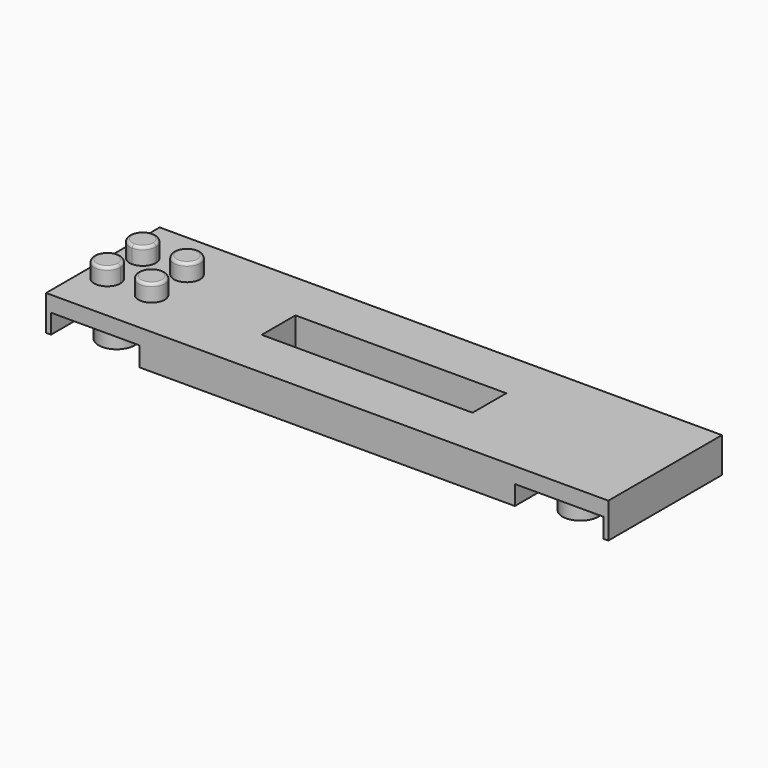
from build123d import *

# Parameters (mm, degrees)
F0_W      = 101.6
F0_H      = 32.004
F1_DEPTH  = 6.35
F2_R      = 2.372595
F3_DEPTH  = 3.048
F4_R      = 0.508
F5_W      = 16.002
F5_H      = 29.0068
F5_R      = 3.2512
F5_R_2    = 2.4003
F6_DEPTH  = 3.5052
F7_W      = 101.6
F7_H      = 3.175
F8_DEPTH  = 6.35
F9_W      = 38.1
F9_H      = 7.62
F10_DEPTH = 6.35


with BuildPart() as f1:
    # F0 (on Top) → F1 (new body)
    with BuildSketch(Plane.XY):
        with Locations((50.8, 16.002)):
            Rectangle(F0_W, F0_H)
    extrude(amount=F1_DEPTH)

    # F2 (on face) → F3 (join)
    with BuildSketch(Plane.XY.offset(6.35)):
        with Locations((12.0015, 20.0025)):
            Circle(F2_R)
        with Locations((12.0015, 12.0015)):
            Circle(F2_R)
        with BuildLine():
            ThreePointArc((6.373095, 12.0015), (5.678178, 13.679178), (4.0005, 14.374095))
            ThreePointArc((4.0005, 14.374095), (2.322822, 10.323822), (6.373095, 12.0015))
        make_face()
        with BuildLine():
            ThreePointArc((4.0005, 17.629905), (5.678178, 18.324822), (6.373095, 20.0025))
            ThreePointArc((6.373095, 20.0025), (2.322822, 21.680178), (4.0005, 17.629905))
        make_face()
    extrude(amount=F3_DEPTH)

    # F4
    f4_edges = [f1.edges().sort_by_distance(p)[0] for p in [
        (9.628905, 20.0025, 9.398),
        (4.0005, 22.375095, 9.398),
        (1.627905, 12.0015, 9.398),
        (9.628905, 12.0015, 9.398),
    ]]
    fillet(f4_edges, radius=F4_R)

    # F5 (on face) → F6 (cut)
    with BuildSketch(Plane(origin=(0, 0, 0), x_dir=(1, 0, 0), z_dir=(0, 0, -1))):
        with Locations((8.89, -16.002)):
            Rectangle(F5_W, F5_H)
        with Locations((8.89, -24.003)):
            Circle(F5_R, mode=Mode.SUBTRACT)
        with Locations((8.89, -16.002)):
            Circle(F5_R, mode=Mode.SUBTRACT)
        with Locations((8.89, -8.001)):
            Circle(F5_R, mode=Mode.SUBTRACT)
        with Locations((92.71, -16.002)):
            Rectangle(F5_W, F5_H)
        with Locations((92.71, -24.003)):
            Circle(F5_R, mode=Mode.SUBTRACT)
        with Locations((92.71, -16.002)):
            Circle(F5_R, mode=Mode.SUBTRACT)
        with Locations((92.71, -8.001)):
            Circle(F5_R, mode=Mode.SUBTRACT)
        with Locations((8.89, -8.001)):
            Circle(F5_R_2)
        with Locations((8.89, -16.002)):
            Circle(F5_R_2)
        with Locations((8.89, -24.003)):
            Circle(F5_R_2)
        with Locations((92.71, -8.001)):
            Circle(F5_R_2)
        with Locations((92.71, -16.002)):
            Circle(F5_R_2)
        with Locations((92.71, -24.003)):
            Circle(F5_R_2)
    extrude(amount=-F6_DEPTH, mode=Mode.SUBTRACT)

    # F7 (on face) → F8 (cut, through all)
    with BuildSketch(Plane(origin=(0, 0, 0), x_dir=(1, 0, 0), z_dir=(0, 0, -1))):
        with Locations((50.8, -30.4165)):
            Rectangle(F7_W, F7_H)
        with Locations((50.8, -1.5875)):
            Rectangle(F7_W, F7_H)
    extrude(amount=-F8_DEPTH, mode=Mode.SUBTRACT)

    # F9 (on face) → F10 (cut, through all)
    with BuildSketch(Plane.XY.offset(6.35)):
        with Locations((50.8, 16.002)):
            Rectangle(F9_W, F9_H)
    extrude(amount=-F10_DEPTH, mode=Mode.SUBTRACT)


solid = f1.part
